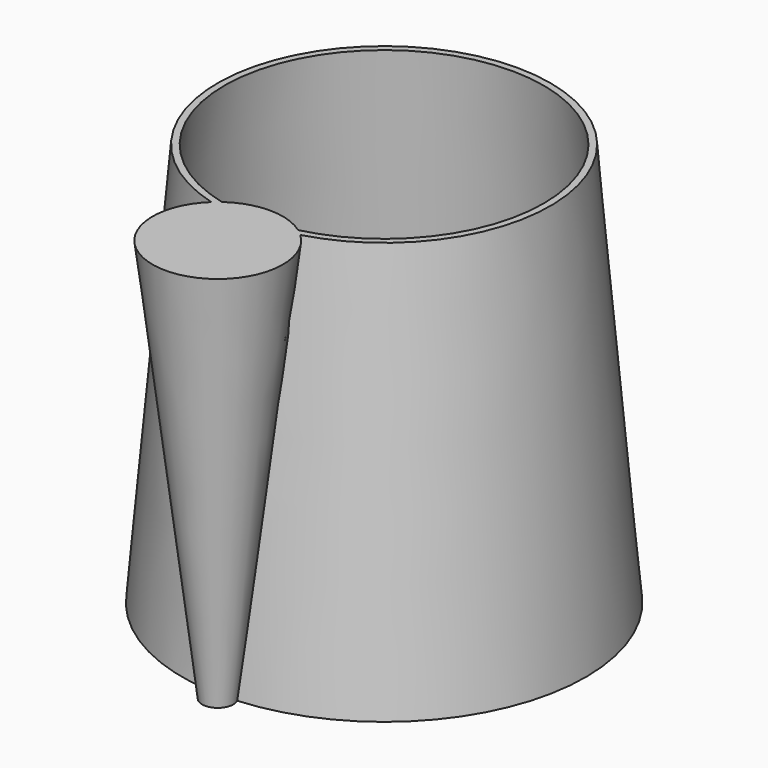
from build123d import *

# Parameters (mm, degrees)
F0_R     = 60
F1_DEPTH = 120
F1_TAPER = 5
F2_T     = -2
F4_R     = 19.3884606064
F5_DEPTH = 120
F5_TAPER = 7


with BuildPart() as f1:
    # F0 (on Top) → F1 (new body)
    with BuildSketch(Plane.XY):
        Circle(F0_R)
    extrude(amount=F1_DEPTH, taper=F1_TAPER)

    # F2
    f2_openings = [f1.faces().sort_by_distance(p)[0] for p in [
        (0, 0, 120),
    ]]
    offset(amount=F2_T, openings=f2_openings)

    # F4 (on offset) → F5 (join, through all)
    with BuildSketch(Plane.XY.offset(120)):
        with Locations((0, -61.8580617011)):
            Circle(F4_R)
    extrude(amount=-F5_DEPTH, taper=F5_TAPER)


solid = f1.part
